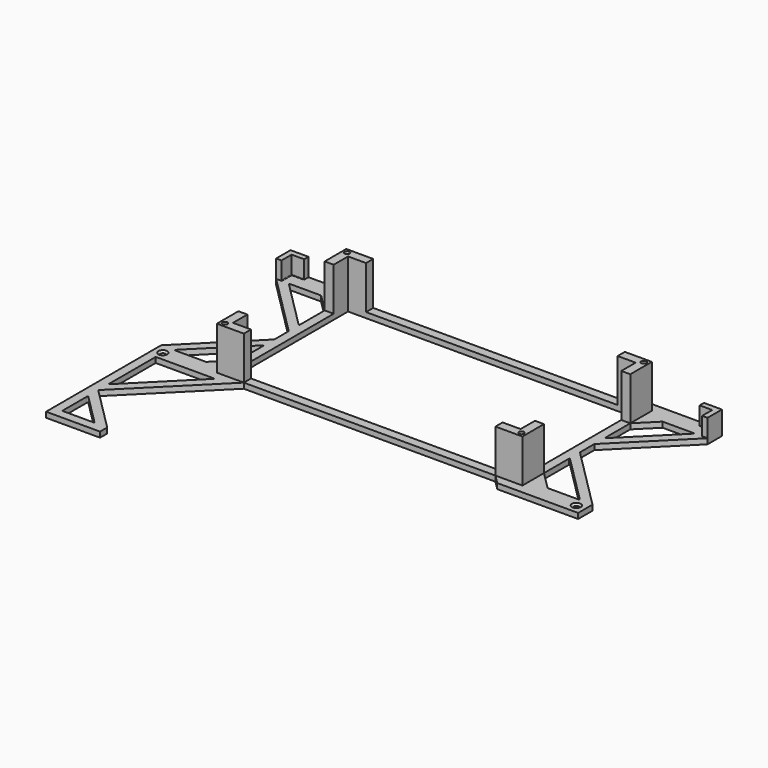
from build123d import *

# Parameters (mm, degrees)
SKETCH003_W     = 170
SKETCH003_H     = 90
SKETCH003_W_2   = 160
SKETCH003_H_2   = 80
PAD_DEPTH       = 3
PAD001_DEPTH    = 3
PAD002_DEPTH    = 3
PAD003_DEPTH    = 3
PAD004_DEPTH    = 3
PAD005_DEPTH    = 10
PAD006_DEPTH    = 10
PAD007_DEPTH    = 24
SKETCH014_R     = 1.65
HOLE_DEPTH      = 30
SKETCH015_R     = 1.325
HOLE001_DEPTH   = 30
SKETCH016_R     = 1.325
HOLE002_DEPTH   = 30
SKETCH017_R     = 1.325
HOLE003_DEPTH   = 30
FILLET_R        = 0.3
FILLET001_R     = 0.3
FILLET002_R     = 0.3
FILLET003_R     = 0.3
FILLET004_R     = 0.3
FILLET005_R     = 0.3
FILLET006_R     = 0.3
FILLET007_R     = 0.3
FILLET008_R     = 0.3
FILLET009_R     = 0.3
SKETCH018_W     = 3.707428
SKETCH018_H     = 3.707435
PAD008_DEPTH    = 27
SKETCH019_W     = 4.325348
SKETCH019_H     = 3.769226
PAD009_DEPTH    = 27
SKETCH020_W     = 4.473305
SKETCH020_H     = 4.349049
PAD010_DEPTH    = 27
SKETCH021_W     = 3.413819
SKETCH021_H     = 3.638272
PAD011_DEPTH    = 27
SKETCH023_R     = 1.4
POCKET_DEPTH    = 30
SKETCH024_R     = 1.4
POCKET001_DEPTH = 30
SKETCH025_R     = 1.4
POCKET002_DEPTH = 30
SKETCH026_R     = 1.4
POCKET003_DEPTH = 30
SKETCH027_R     = 1.5
POCKET004_DEPTH = 5
CHAMFER_SIZE    = 1


with BuildPart() as part:
    # Sketch003 → Pad (new body)
    with BuildSketch(Plane.XY):
        Rectangle(SKETCH003_W, SKETCH003_H)
        Rectangle(SKETCH003_W_2, SKETCH003_H_2, mode=Mode.SUBTRACT)
    extrude(amount=PAD_DEPTH)

    # Sketch005 → Pad001 (join)
    with BuildSketch(Plane.XY):
        Polygon((-70, 45), (-75, 50), (-120, 50), (-120, 40), (-85, 5), (-85, 12), (-113, 40), (-95, 40), (-85, 30), (-85, 45), align=None)
    extrude(amount=PAD001_DEPTH)

    # Sketch007 → Pad002 (join)
    with BuildSketch(Plane.XY):
        Polygon((70, 45), (75, 50), (120, 50), (120, 40), (85, 5), (85, 12), (113, 40), (95, 40), (85, 30), (85, 45), align=None)
    extrude(amount=PAD002_DEPTH)

    # Sketch008 → Pad003 (join)
    with BuildSketch(Plane.XY):
        Polygon((70, -45), (75, -50), (120, -50), (120, -40), (85, -5), (85, -12), (113, -40), (95, -40), (85, -30), (85, -45), align=None)
    extrude(amount=PAD003_DEPTH)

    # Sketch009 → Pad004 (join)
    with BuildSketch(Plane.XY):
        Polygon((-70, -45), (-75, -50), (-115, -90), (-90, -115), (-90, -120), (-120, -120), (-120, -50), (-120, -40), (-85, -5), (-85, -12), (-113, -40), (-95, -40), (-85, -30), (-85, -45), align=None)
        Polygon((-115, -50), (-115, -83), (-82, -50), align=None, mode=Mode.SUBTRACT)
        Polygon((-115, -97), (-115, -115), (-97, -115), align=None, mode=Mode.SUBTRACT)
    extrude(amount=PAD004_DEPTH)

    # Sketch011 (on Face23 of Pad004) → Pad005 (join)
    with BuildSketch(Plane.XY.offset(3)):
        Polygon((-120, 50), (-120, 40), (-117, 40), (-117, 47), (-110, 47), (-110, 50), align=None)
    extrude(amount=PAD005_DEPTH)

    # Sketch012 (on Face22 of Pad005) → Pad006 (join)
    with BuildSketch(Plane.XY.offset(3)):
        Polygon((120, 50), (110, 50), (110, 47), (117, 47), (117, 40), (120, 40), align=None)
    extrude(amount=PAD006_DEPTH)

    # Sketch013 (on Face4 of Pad006) → Pad007 (join)
    with BuildSketch(Plane.XY.offset(3)):
        Polygon((-85, 45), (-85, 30), (-80, 30), (-80, 40), (-70, 40), (-70, 45), align=None)
        Polygon((85, 45), (85, 30), (80, 30), (80, 40), (70, 40), (70, 45), align=None)
        Polygon((85, -45), (85, -30), (80, -30), (80, -40), (70, -40), (70, -45), align=None)
        Polygon((-85, -45), (-85, -30), (-80, -30), (-80, -40), (-70, -40), (-70, -45), align=None)
    extrude(amount=PAD007_DEPTH)

    # Sketch014 (on Face80 of Pad007) → Hole (cut)
    with BuildSketch(Plane.XY.offset(27)):
        with Locations((-82.5, 42.5)):
            Circle(SKETCH014_R)
    extrude(amount=-HOLE_DEPTH, mode=Mode.SUBTRACT)

    # Sketch015 (on Face99 of Hole) → Hole001 (cut)
    with BuildSketch(Plane.XY.offset(27)):
        with Locations((-82.5, -42.5)):
            Circle(SKETCH015_R)
    extrude(amount=-HOLE001_DEPTH, mode=Mode.SUBTRACT)

    # Sketch016 (on Face84 of Hole001) → Hole002 (cut)
    with BuildSketch(Plane.XY.offset(27)):
        with Locations((82.5, 42.5)):
            Circle(SKETCH016_R)
    extrude(amount=-HOLE002_DEPTH, mode=Mode.SUBTRACT)

    # Sketch017 (on Face104 of Hole002) → Hole003 (cut)
    with BuildSketch(Plane.XY.offset(27)):
        with Locations((82.5, -42.5)):
            Circle(SKETCH017_R)
    extrude(amount=-HOLE003_DEPTH, mode=Mode.SUBTRACT)

    # Fillet
    fillet_edges = [part.edges().sort_by_distance(p)[0] for p in [
        (-115, -97, 1.5),
    ]]
    fillet(fillet_edges, radius=FILLET_R)

    # Fillet001
    fillet001_edges = [part.edges().sort_by_distance(p)[0] for p in [
        (-115, -115, 1.5),
    ]]
    fillet(fillet001_edges, radius=FILLET001_R)

    # Fillet002
    fillet002_edges = [part.edges().sort_by_distance(p)[0] for p in [
        (-97, -115, 1.5),
    ]]
    fillet(fillet002_edges, radius=FILLET002_R)

    # Fillet003
    fillet003_edges = [part.edges().sort_by_distance(p)[0] for p in [
        (-115, -90, 1.5),
    ]]
    fillet(fillet003_edges, radius=FILLET003_R)

    # Fillet004
    fillet004_edges = [part.edges().sort_by_distance(p)[0] for p in [
        (-115, -50, 1.5),
        (-115, -83, 1.5),
        (-82, -50, 1.5),
    ]]
    fillet(fillet004_edges, radius=FILLET004_R)

    # Fillet005
    fillet005_edges = [part.edges().sort_by_distance(p)[0] for p in [
        (-95, -40, 1.5),
        (-85, -12, 1.5),
        (-113, -40, 1.5),
    ]]
    fillet(fillet005_edges, radius=FILLET005_R)

    # Fillet006
    fillet006_edges = [part.edges().sort_by_distance(p)[0] for p in [
        (-117, 43.5, 3),
        (-113.5, 47, 3),
    ]]
    fillet(fillet006_edges, radius=FILLET006_R)

    # Fillet007
    fillet007_edges = [part.edges().sort_by_distance(p)[0] for p in [
        (-113, 40, 1.5),
        (-85, 12, 1.5),
    ]]
    fillet(fillet007_edges, radius=FILLET007_R)

    # Fillet008
    fillet008_edges = [part.edges().sort_by_distance(p)[0] for p in [
        (113.5, 47, 3),
        (117, 43.5, 3),
        (113, 40, 1.5),
        (85, 12, 1.5),
    ]]
    fillet(fillet008_edges, radius=FILLET008_R)

    # Fillet009
    fillet009_edges = [part.edges().sort_by_distance(p)[0] for p in [
        (113, -40, 1.5),
        (85, -12, 1.5),
    ]]
    fillet(fillet009_edges, radius=FILLET009_R)

    # Sketch018 (on Face81 of Fillet009) → Pad008 (join)
    with BuildSketch(Plane.XY.offset(27)):
        with Locations((82.542801, -42.437325)):
            Rectangle(SKETCH018_W, SKETCH018_H)
    extrude(amount=-PAD008_DEPTH)

    # Sketch019 (on Face37 of Pad008) → Pad009 (join)
    with BuildSketch(Plane.XY.offset(27)):
        with Locations((82.440964, 42.612553)):
            Rectangle(SKETCH019_W, SKETCH019_H)
    extrude(amount=-PAD009_DEPTH)

    # Sketch020 (on Face85 of Pad009) → Pad010 (join)
    with BuildSketch(Plane.XY.offset(27)):
        with Locations((-82.434589, 42.41842)):
            Rectangle(SKETCH020_W, SKETCH020_H)
    extrude(amount=-PAD010_DEPTH)

    # Sketch021 (on Face18 of Pad010) → Pad011 (join)
    with BuildSketch(Plane.XY.offset(27)):
        with Locations((-82.443809, -42.548483)):
            Rectangle(SKETCH021_W, SKETCH021_H)
    extrude(amount=-PAD011_DEPTH)

    # Sketch023 (on Face83 of Pad011) → Pocket (cut)
    with BuildSketch(Plane.XY.offset(27)):
        with Locations((-82.5, 42.5)):
            Circle(SKETCH023_R)
    extrude(amount=-POCKET_DEPTH, mode=Mode.SUBTRACT)

    # Sketch024 (on Face99 of Hole) → Pocket001 (cut)
    with BuildSketch(Plane.XY.offset(27)):
        with Locations((-82.5, -42.5)):
            Circle(SKETCH024_R)
    extrude(amount=-POCKET001_DEPTH, mode=Mode.SUBTRACT)

    # Sketch025 (on Face84 of Hole001) → Pocket002 (cut)
    with BuildSketch(Plane.XY.offset(27)):
        with Locations((82.5, 42.5)):
            Circle(SKETCH025_R)
    extrude(amount=-POCKET002_DEPTH, mode=Mode.SUBTRACT)

    # Sketch026 (on Face104 of Hole002) → Pocket003 (cut)
    with BuildSketch(Plane.XY.offset(27)):
        with Locations((82.5, -42.5)):
            Circle(SKETCH026_R)
    extrude(amount=-POCKET003_DEPTH, mode=Mode.SUBTRACT)

    # Sketch027 (on Face6 of Pocket003) → Pocket004 (cut)
    with BuildSketch(Plane.XY.offset(3)):
        with Locations((-115, -45)):
            Circle(SKETCH027_R)
        with Locations((115, -45)):
            Circle(SKETCH027_R)
    extrude(amount=-POCKET004_DEPTH, mode=Mode.SUBTRACT)

    # Chamfer
    chamfer_edges = [part.edges().sort_by_distance(p)[0] for p in [
        (-116.5, -45, 3),
        (113.5, -45, 3),
    ]]
    chamfer(chamfer_edges, length=CHAMFER_SIZE)


solid = part.part
